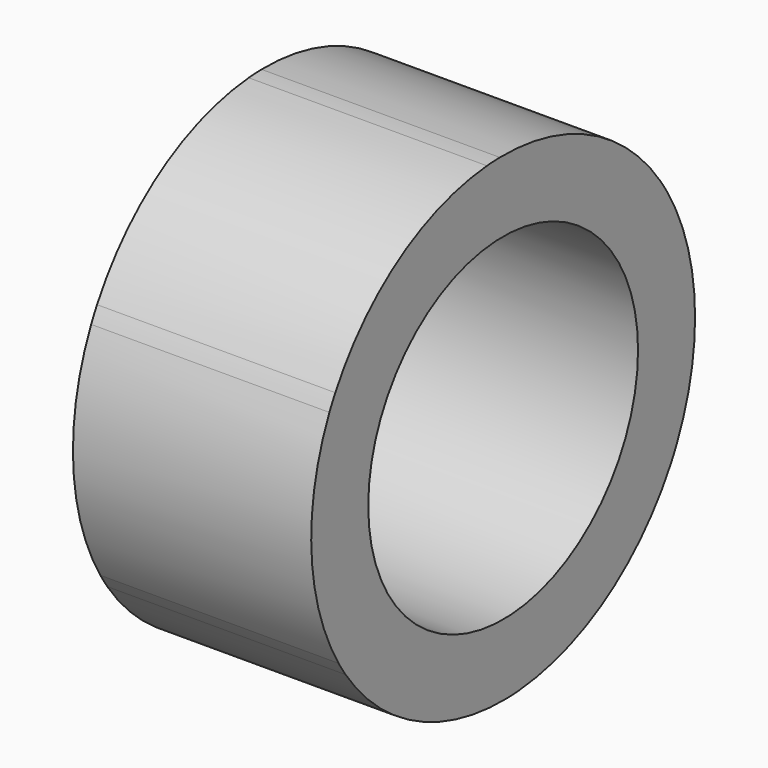
from build123d import *

# Parameters (mm, degrees)
F0_R     = 31.44
F0_R_2   = 29.05
F0_R_3   = 26.805
F1_DEPTH = 37.88
F4_DEPTH = 28.13


with BuildPart() as f1:
    # F0 (on Right) → F1 (new body)
    with BuildSketch(Plane.YZ):
        with BuildLine():
            Line((31.304301426, 21.7876183239), (-0.6523183852, 38.1344212061))
            ThreePointArc((-0.6523183852, 38.1344212061), (-1.9354959812, 38.0908578967), (-3.2164802435, 38.0041294446))
            Line((-3.2164802435, 38.0041294446), (-33.3515367157, 18.5022863101))
            ThreePointArc((-33.3515367157, 18.5022863101), (-33.9553985811, 17.3692402597), (-34.5207816695, 16.2165111207))
            Line((-34.5207816695, 16.2165111207), (-32.6992183305, -19.632134896))
            ThreePointArc((-32.6992183305, -19.632134896), (-32.0199025999, -20.721617637), (-31.304301426, -21.7876183239))
            Line((-31.304301426, -21.7876183239), (0.6523183852, -38.1344212061))
            ThreePointArc((0.6523183852, -38.1344212061), (1.9354959812, -38.0908578967), (3.2164802435, -38.0041294446))
            Line((3.2164802435, -38.0041294446), (33.3515367157, -18.5022863101))
            ThreePointArc((33.3515367157, -18.5022863101), (33.9553985811, -17.3692402597), (34.5207816695, -16.2165111207))
            Line((34.5207816695, -16.2165111207), (32.6992183305, 19.632134896))
            ThreePointArc((32.6992183305, 19.632134896), (32.0199025999, 20.721617637), (31.304301426, 21.7876183239))
        make_face()
        Circle(F0_R, mode=Mode.SUBTRACT)
        Circle(F0_R)
        Circle(F0_R_2, mode=Mode.SUBTRACT)
        Circle(F0_R_2)
        Circle(F0_R_3, mode=Mode.SUBTRACT)
        with BuildLine():
            ThreePointArc((31.304301426, 21.7876183239), (17.3692402597, 33.9553985811), (-0.6523183852, 38.1344212061))
            Line((-0.6523183852, 38.1344212061), (31.304301426, 21.7876183239))
        make_face()
        with BuildLine():
            Line((-33.3515367157, 18.5022863101), (-3.2164802435, 38.0041294446))
            ThreePointArc((-3.2164802435, 38.0041294446), (-20.721617637, 32.0199025999), (-33.3515367157, 18.5022863101))
        make_face()
        with BuildLine():
            Line((-32.6992183305, -19.632134896), (-34.5207816695, 16.2165111207))
            ThreePointArc((-34.5207816695, 16.2165111207), (-38.0908578967, -1.9354959812), (-32.6992183305, -19.632134896))
        make_face()
        with BuildLine():
            Line((0.6523183852, -38.1344212061), (-31.304301426, -21.7876183239))
            ThreePointArc((-31.304301426, -21.7876183239), (-17.3692402597, -33.9553985811), (0.6523183852, -38.1344212061))
        make_face()
        with BuildLine():
            ThreePointArc((3.2164802435, -38.0041294446), (20.721617637, -32.0199025999), (33.3515367157, -18.5022863101))
            Line((33.3515367157, -18.5022863101), (3.2164802435, -38.0041294446))
        make_face()
        with BuildLine():
            ThreePointArc((38.14, 0), (36.7546445169, 10.1860545079), (32.6992183305, 19.632134896))
            Line((32.6992183305, 19.632134896), (34.5207816695, -16.2165111207))
            ThreePointArc((34.5207816695, -16.2165111207), (37.224200548, -8.30773697), (38.14, 0))
        make_face()
    extrude(amount=F1_DEPTH)

    # F0 (on Right) → F4 (cut)
    with BuildSketch(Plane.YZ):
        with BuildLine():
            Line((31.304301426, 21.7876183239), (-0.6523183852, 38.1344212061))
            ThreePointArc((-0.6523183852, 38.1344212061), (-1.9354959812, 38.0908578967), (-3.2164802435, 38.0041294446))
            Line((-3.2164802435, 38.0041294446), (-33.3515367157, 18.5022863101))
            ThreePointArc((-33.3515367157, 18.5022863101), (-33.9553985811, 17.3692402597), (-34.5207816695, 16.2165111207))
            Line((-34.5207816695, 16.2165111207), (-32.6992183305, -19.632134896))
            ThreePointArc((-32.6992183305, -19.632134896), (-32.0199025999, -20.721617637), (-31.304301426, -21.7876183239))
            Line((-31.304301426, -21.7876183239), (0.6523183852, -38.1344212061))
            ThreePointArc((0.6523183852, -38.1344212061), (1.9354959812, -38.0908578967), (3.2164802435, -38.0041294446))
            Line((3.2164802435, -38.0041294446), (33.3515367157, -18.5022863101))
            ThreePointArc((33.3515367157, -18.5022863101), (33.9553985811, -17.3692402597), (34.5207816695, -16.2165111207))
            Line((34.5207816695, -16.2165111207), (32.6992183305, 19.632134896))
            ThreePointArc((32.6992183305, 19.632134896), (32.0199025999, 20.721617637), (31.304301426, 21.7876183239))
        make_face()
        Circle(F0_R, mode=Mode.SUBTRACT)
        with BuildLine():
            ThreePointArc((31.304301426, 21.7876183239), (17.3692402597, 33.9553985811), (-0.6523183852, 38.1344212061))
            Line((-0.6523183852, 38.1344212061), (31.304301426, 21.7876183239))
        make_face()
        with BuildLine():
            Line((-33.3515367157, 18.5022863101), (-3.2164802435, 38.0041294446))
            ThreePointArc((-3.2164802435, 38.0041294446), (-20.721617637, 32.0199025999), (-33.3515367157, 18.5022863101))
        make_face()
        with BuildLine():
            Line((-32.6992183305, -19.632134896), (-34.5207816695, 16.2165111207))
            ThreePointArc((-34.5207816695, 16.2165111207), (-38.0908578967, -1.9354959812), (-32.6992183305, -19.632134896))
        make_face()
        with BuildLine():
            Line((0.6523183852, -38.1344212061), (-31.304301426, -21.7876183239))
            ThreePointArc((-31.304301426, -21.7876183239), (-17.3692402597, -33.9553985811), (0.6523183852, -38.1344212061))
        make_face()
        with BuildLine():
            ThreePointArc((3.2164802435, -38.0041294446), (20.721617637, -32.0199025999), (33.3515367157, -18.5022863101))
            Line((33.3515367157, -18.5022863101), (3.2164802435, -38.0041294446))
        make_face()
        with BuildLine():
            ThreePointArc((38.14, 0), (36.7546445169, 10.1860545079), (32.6992183305, 19.632134896))
            Line((32.6992183305, 19.632134896), (34.5207816695, -16.2165111207))
            ThreePointArc((34.5207816695, -16.2165111207), (37.224200548, -8.30773697), (38.14, 0))
        make_face()
    extrude(amount=-F4_DEPTH, mode=Mode.SUBTRACT)


solid = f1.part
